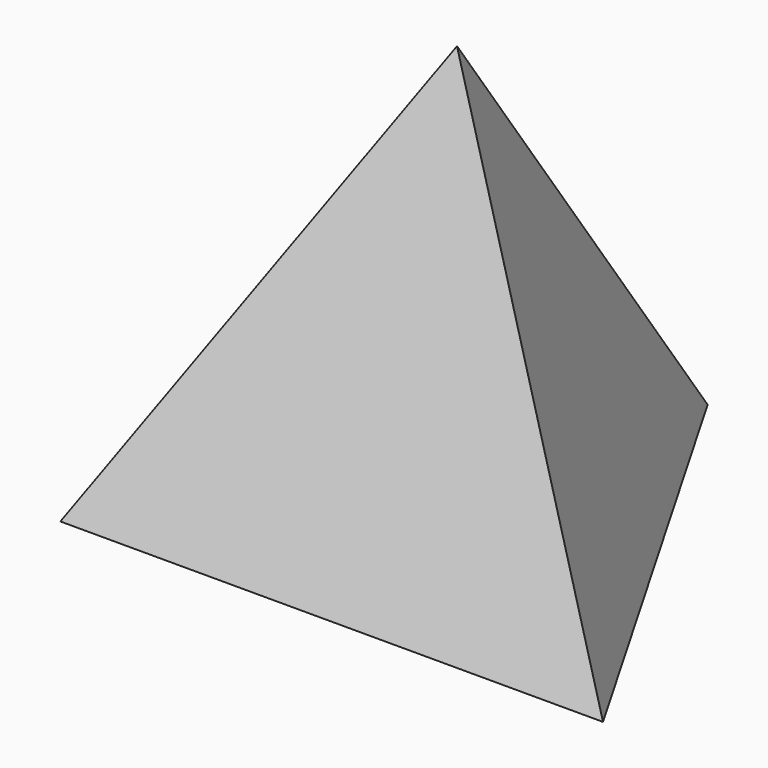
from build123d import *


with BuildPart() as f3:
    # F0 (on Top) → F3 section 0
    with BuildSketch(Plane.XY, mode=Mode.PRIVATE) as f3_s0:
        Polygon((12.7, 0), (0, 21.997045), (-12.7, 0), align=None)
    loft([f3_s0.sketch, Vertex(0, 7.332348, 20.739013)])


solid = f3.part
